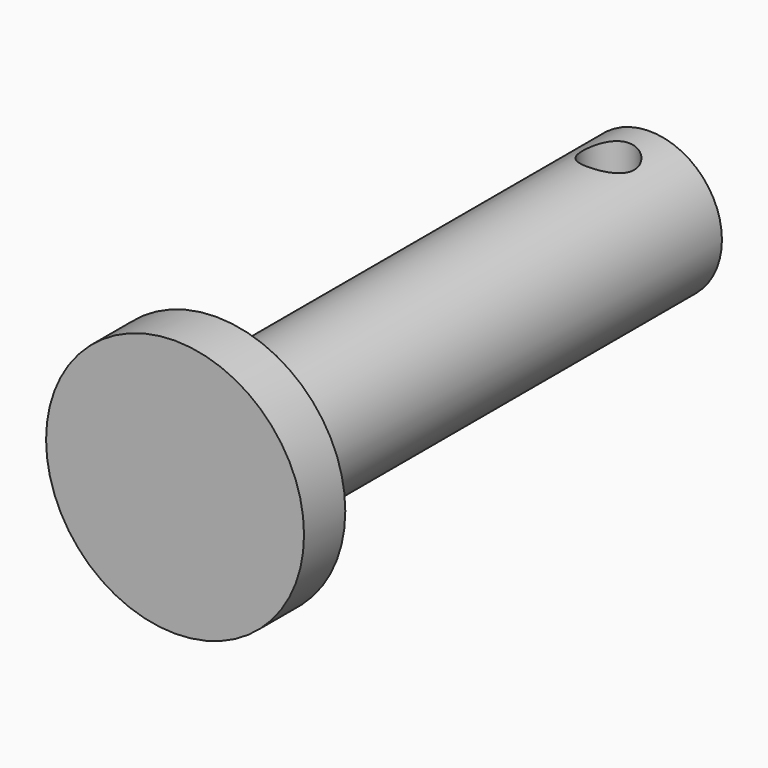
from build123d import *

# Parameters (mm, degrees)
SKETCH074_R       = 1
PAD075_DEPTH      = 10
CYLINDER048_R     = 2.8
CYLINDER048_DEPTH = 21
CYLINDER049_R     = 5
CYLINDER049_DEPTH = 2
CUT054_ROLL_ANGLE = 90


with BuildPart() as pad075:
    # Sketch074 → Pad075 (new body)
    with BuildSketch(Plane(origin=(0, 4.2, 21), x_dir=(1, 0, 0), z_dir=(0, -1, 0))):
        Circle(SKETCH074_R)
    extrude(amount=PAD075_DEPTH)


with BuildPart() as eje003:
    # Cylinder048 → Cylinder048 (new body)
    with BuildSketch(Plane.XY.offset(2)):
        Circle(CYLINDER048_R)
    extrude(amount=CYLINDER048_DEPTH)


with BuildPart() as eje_full003:
    # Cylinder049 → Cylinder049 (new body)
    with BuildSketch(Plane.XY):
        Circle(CYLINDER049_R)
    extrude(amount=CYLINDER049_DEPTH)

    # Fusion009003073: union Eje003
    add(eje003.part)

    # Cut054: cut Pad075
    add(pad075.part, mode=Mode.SUBTRACT)


with BuildPart() as eje_full003_1:
    # Cut054 roll: moved
    add(eje_full003.part.rotate(Axis((0, 0, 0), (1, 0, 0)), CUT054_ROLL_ANGLE))


with BuildPart() as eje_full003_2:
    # Cut054 placement: moved
    add(eje_full003_1.part.moved(Location((14, 13, 8.5))))


with BuildPart() as eje_full004:
    # Part__Mirroring018: instance of Eje_full003
    add(eje_full003_2.part.mirror(Plane(origin=(0, 0, 0), x_dir=(1, 0, 0), z_dir=(0, 1, 0))))


with BuildPart() as eje_full004_1:
    # Part__Mirroring018 placement: moved
    add(eje_full004.part.moved(Location((0, -178, 0))))


solid = eje_full004_1.part
